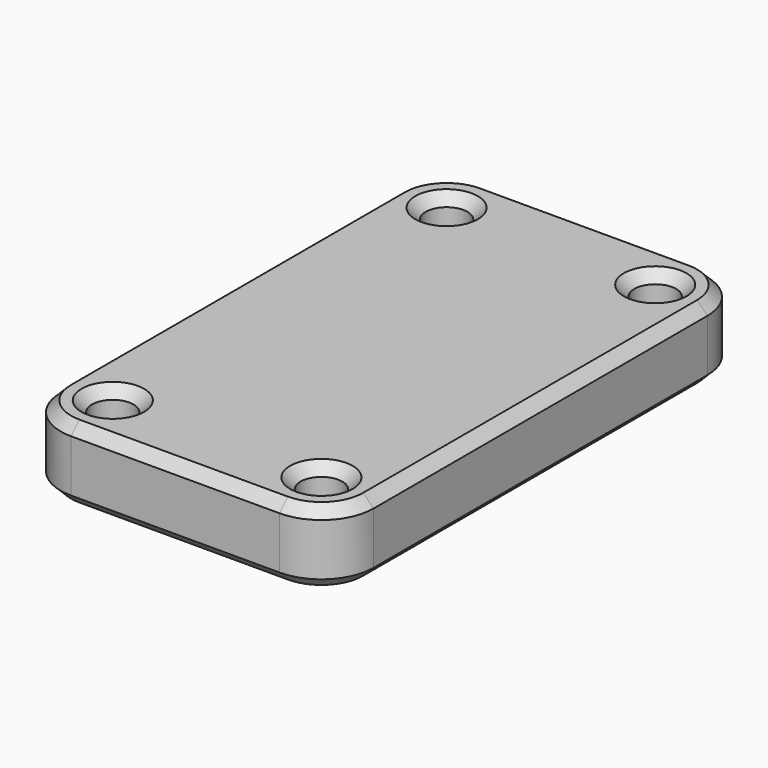
from build123d import *

# Parameters (mm, degrees)
SKETCH045_W     = 30
SKETCH045_H     = 50
SKETCH045_R     = 2
PAD020_DEPTH    = 7
FILLET019_R     = 5
CHAMFER032_SIZE = 1


with BuildPart() as part:
    # Sketch045 → Pad020 (new body)
    with BuildSketch(Plane.XY):
        Rectangle(SKETCH045_W, SKETCH045_H)
        with Locations((-10, 20)):
            Circle(SKETCH045_R, mode=Mode.SUBTRACT)
        with Locations((10, 20)):
            Circle(SKETCH045_R, mode=Mode.SUBTRACT)
        with Locations((10, -20)):
            Circle(SKETCH045_R, mode=Mode.SUBTRACT)
        with Locations((-10, -20)):
            Circle(SKETCH045_R, mode=Mode.SUBTRACT)
    extrude(amount=-PAD020_DEPTH)

    # Fillet019
    fillet019_edges = [part.edges().sort_by_distance(p)[0] for p in [
        (15, -25, -3.5),
        (-15, -25, -3.5),
        (-15, 25, -3.5),
        (15, 25, -3.5),
    ]]
    fillet(fillet019_edges, radius=FILLET019_R)

    # Chamfer032
    chamfer032_edges = [part.edges().sort_by_distance(p)[0] for p in [
        (-15, 0, 0),
        (-13.535534, -23.535534, 0),
        (-13.535534, 23.535534, 0),
        (0, -25, 0),
        (0, 25, 0),
        (13.535534, -23.535534, 0),
        (13.535534, 23.535534, 0),
        (15, 0, 0),
        (-12, 20, 0),
        (8, 20, 0),
        (8, -20, 0),
        (-12, -20, 0),
        (-15, 0, -7),
        (-13.535534, -23.535534, -7),
        (-13.535534, 23.535534, -7),
        (0, -25, -7),
        (0, 25, -7),
        (13.535534, -23.535534, -7),
        (13.535534, 23.535534, -7),
        (15, 0, -7),
        (-12, 20, -7),
        (8, 20, -7),
        (8, -20, -7),
        (-12, -20, -7),
    ]]
    chamfer(chamfer032_edges, length=CHAMFER032_SIZE)


with BuildPart() as part_1:
    # Body015 placement: moved
    add(part.part.moved(Location((0, 80, 230))))


solid = part_1.part
